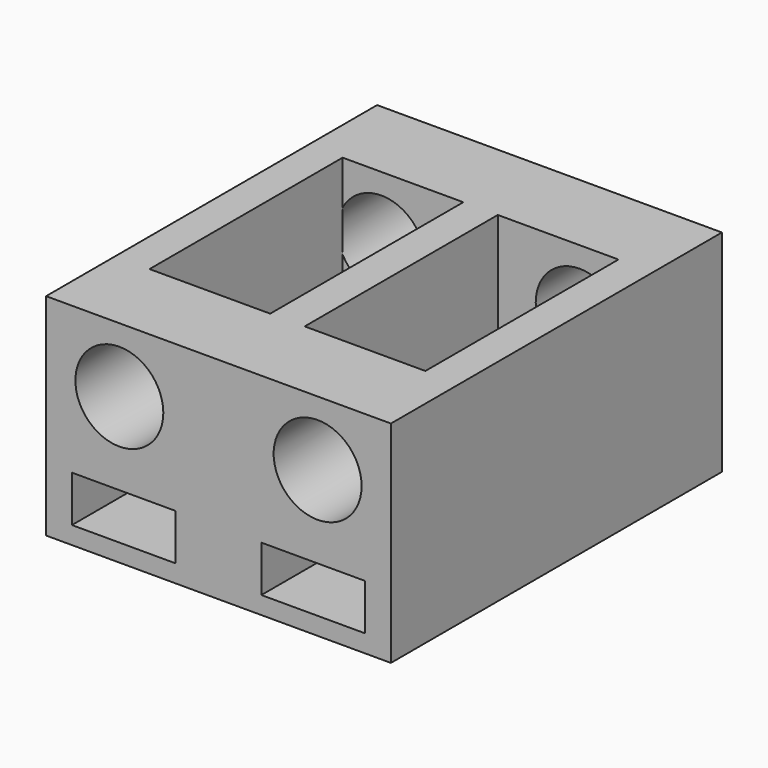
from build123d import *

# Parameters (mm, degrees)
F0_W           = 25.4
F0_H           = 9.525
F1_DEPTH       = 6.35
F2_W           = 2.54
F2_H           = 9.525
F3_DEPTH       = 17.78
F4_W           = 25.4
F4_H           = 9.525
F5_DEPTH       = 6.35
F6_R           = 3.2385
F7_DEPTH       = 6.35
F8_R           = 3.2385
F9_DEPTH       = 6.35
F10_W          = 25.4
F10_H          = 30.48
F11_DEPTH      = 6
F14_DEPTH      = 1.7
F14_DEPTH_BACK = 1.7
F15_R          = 2.2
F16_DEPTH      = 5.588


with BuildPart() as f1:
    # F0 (on Front) → F1 (new body)
    with BuildSketch(Plane.XZ):
        Rectangle(F0_W, F0_H)
    extrude(amount=F1_DEPTH)

    # F2 (on face) → F3 (join)
    with BuildSketch(Plane.XZ.offset(6.35)):
        with Locations((-11.43, 0)):
            Rectangle(F2_W, F2_H)
        Rectangle(F2_W, F2_H)
        with Locations((11.43, 0)):
            Rectangle(F2_W, F2_H)
    extrude(amount=F3_DEPTH)

    # F4 (on face) → F5 (join)
    with BuildSketch(Plane.XZ.offset(24.13)):
        Rectangle(F4_W, F4_H)
    extrude(amount=F5_DEPTH)

    # F6 (on face) → F7 (cut, through all)
    with BuildSketch(Plane(origin=(0, 0, 0), x_dir=(-1, 0, 0), z_dir=(0, 1, 0))):
        with Locations((7.3025, 0)):
            Circle(F6_R)
        with Locations((-7.3025, 0)):
            Circle(F6_R)
    extrude(amount=-F7_DEPTH, mode=Mode.SUBTRACT)

    # F8 (on face) → F9 (cut, through all)
    with BuildSketch(Plane.XZ.offset(30.48)):
        with Locations((-7.3025, 0)):
            Circle(F8_R)
        with Locations((7.3025, 0)):
            Circle(F8_R)
    extrude(amount=-F9_DEPTH, mode=Mode.SUBTRACT)

    # F10 (on face) → F11 (join)
    with BuildSketch(Plane(origin=(0, 0, -4.7625), x_dir=(1, 0, 0), z_dir=(0, 0, -1))):
        with Locations((0, 15.24)):
            Rectangle(F10_W, F10_H)
    extrude(amount=F11_DEPTH)

    # F13 (on offset) → F14 (cut, two sides)
    with BuildSketch(Plane(origin=(0, 0, -7.7625), x_dir=(1, 0, 0), z_dir=(0, 0, -1))) as f14_sk:
        Polygon((-3.16, 18.8017653474), (-3.16, 23.2098346526), (-3.16, 30.48), (-10.795, 30.48), (-10.795, 23.2098346526), (-10.795, 18.8017653474), (-6.9775, 16.5977306947), align=None)
        Polygon((10.795, 18.8017653474), (10.795, 23.2098346526), (10.795, 30.48), (3.16, 30.48), (3.16, 23.2098346526), (3.16, 18.8017653474), (6.9775, 16.5977306947), align=None)
        Polygon((3.8175, 2.2040346526), (3.8175, 6.6121039579), (0, 8.8161386105), (-3.8175, 6.6121039579), (-3.8175, 2.2040346526), (-3.8175, -0.0115306947), (3.8175, -0.0115306947), align=None)
    extrude(amount=-F14_DEPTH, mode=Mode.SUBTRACT)
    extrude(f14_sk.sketch, amount=F14_DEPTH_BACK, mode=Mode.SUBTRACT)

    # F15 (on face) → F16 (cut)
    with BuildSketch(Plane(origin=(0, 0, -10.7625), x_dir=(1, 0, 0), z_dir=(0, 0, -1))):
        with Locations((0, 4.4080693053)):
            Circle(F15_R)
        with Locations((6.9775, 21.0058)):
            Circle(F15_R)
        with Locations((-6.9775, 21.0058)):
            Circle(F15_R)
    extrude(amount=-F16_DEPTH, mode=Mode.SUBTRACT)


solid = f1.part
